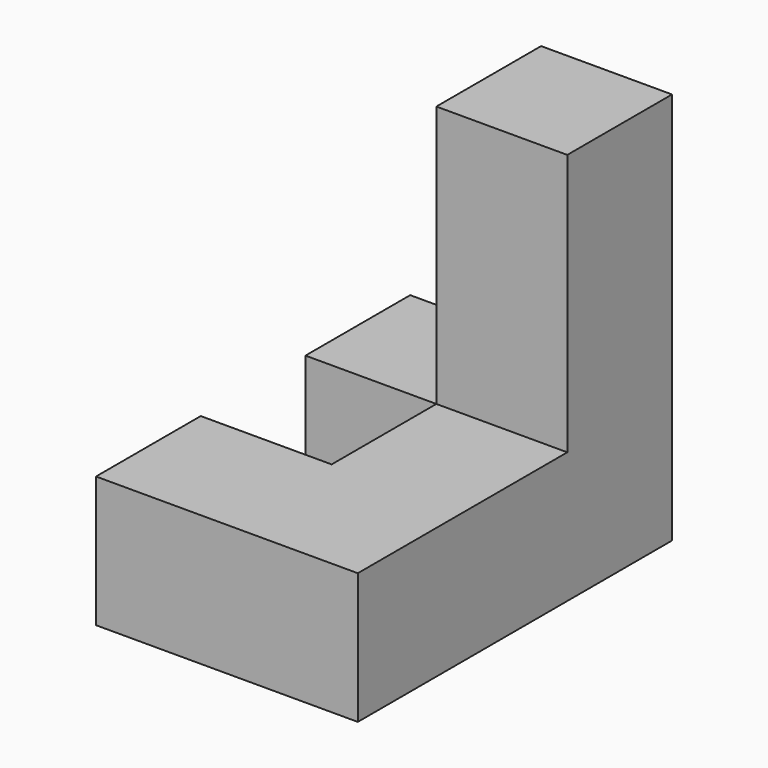
from build123d import *

# Parameters (mm, degrees)
F0_W     = 12
F0_H     = 12
F1_DEPTH = 36
F2_DEPTH = 12


with BuildPart() as f1:
    # F0 (on Top) → F1 (new body)
    with BuildSketch(Plane.XY):
        with Locations((-30.113823, 30)):
            Rectangle(F0_W, F0_H)
    extrude(amount=F1_DEPTH)

    # F0 (on Top) → F2 (join)
    with BuildSketch(Plane.XY):
        with Locations((-30.113823, 30)):
            Rectangle(F0_W, F0_H)
        with Locations((-42.113823, 30)):
            Rectangle(F0_W, F0_H)
        with Locations((-30.113823, 18)):
            Rectangle(F0_W, F0_H)
        with Locations((-30.113823, 6)):
            Rectangle(F0_W, F0_H)
        with Locations((-42.113823, 6)):
            Rectangle(F0_W, F0_H)
    extrude(amount=F2_DEPTH)


solid = f1.part
